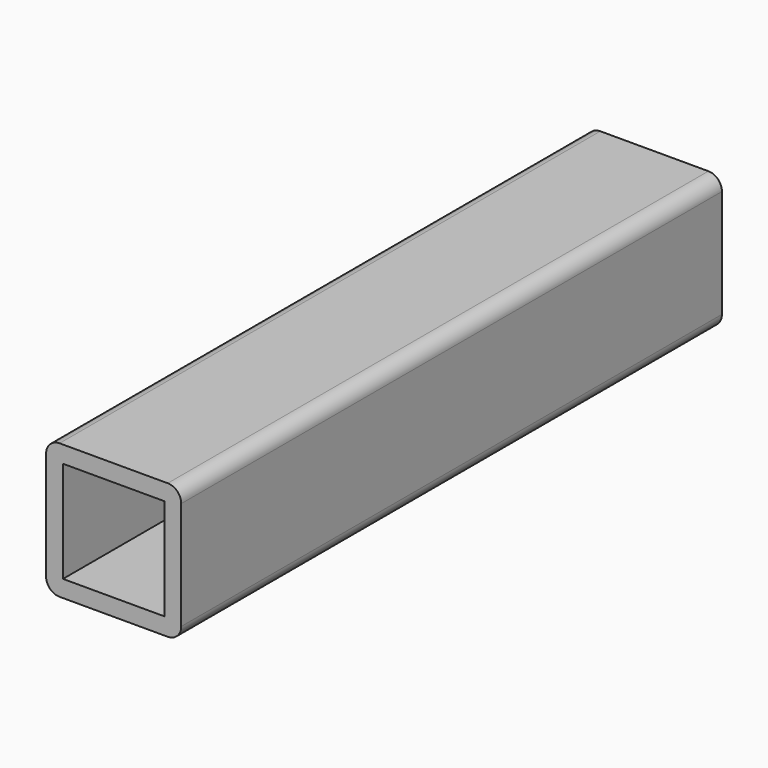
from build123d import *

# Parameters (mm, degrees)
F0_W     = 25.4
F0_H     = 25.4
F0_W_2   = 19.05
F0_H_2   = 19.05
F1_DEPTH = 127
F2_R     = 2.54


with BuildPart() as f1:
    # F0 (on Front) → F1 (new body)
    with BuildSketch(Plane.XZ):
        Rectangle(F0_W, F0_H)
        Rectangle(F0_W_2, F0_H_2, mode=Mode.SUBTRACT)
    extrude(amount=F1_DEPTH)

    # F2
    f2_edges = [f1.edges().sort_by_distance(p)[0] for p in [
        (-12.7, -63.5, -12.7),
        (12.7, -63.5, -12.7),
        (-12.7, -63.5, 12.7),
        (12.7, -63.5, 12.7),
    ]]
    fillet(f2_edges, radius=F2_R)


solid = f1.part
